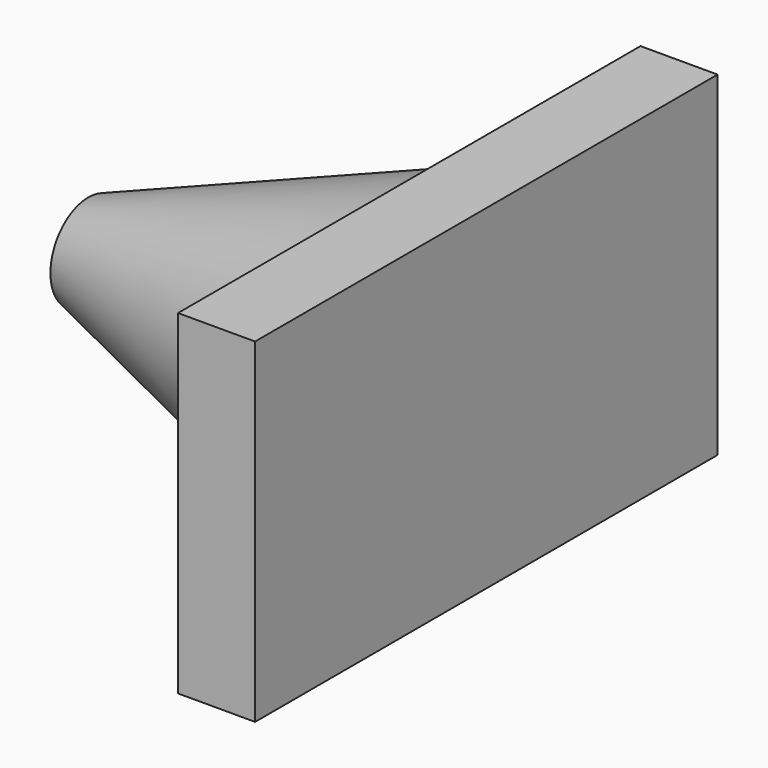
from build123d import *

# Parameters (mm, degrees)
F2_T     = -3.3
F3_W     = 45
F3_H     = 26.067962
F4_DEPTH = 6


with BuildPart() as f1:
    # F0 (on Front) → F1 (revolve)
    with BuildSketch(Plane.XZ):
        Polygon((-21.407768, 3.695389), (-21.407768, 0), (3.567961, 0), (3.567961, 12.870146), align=None)
    revolve(axis=Axis((-8.919903, 0, 0), (-1, 0, 0)))

    # F2
    f2_openings = [f1.faces().sort_by_distance(p)[0] for p in [
        (3.567961, 0, 0),
    ]]
    offset(amount=F2_T, openings=f2_openings)

    # F3 (on face) → F4 (join)
    with BuildSketch(Plane.YZ.offset(3.567961)):
        Rectangle(F3_W, F3_H)
    extrude(amount=F4_DEPTH)


solid = f1.part
